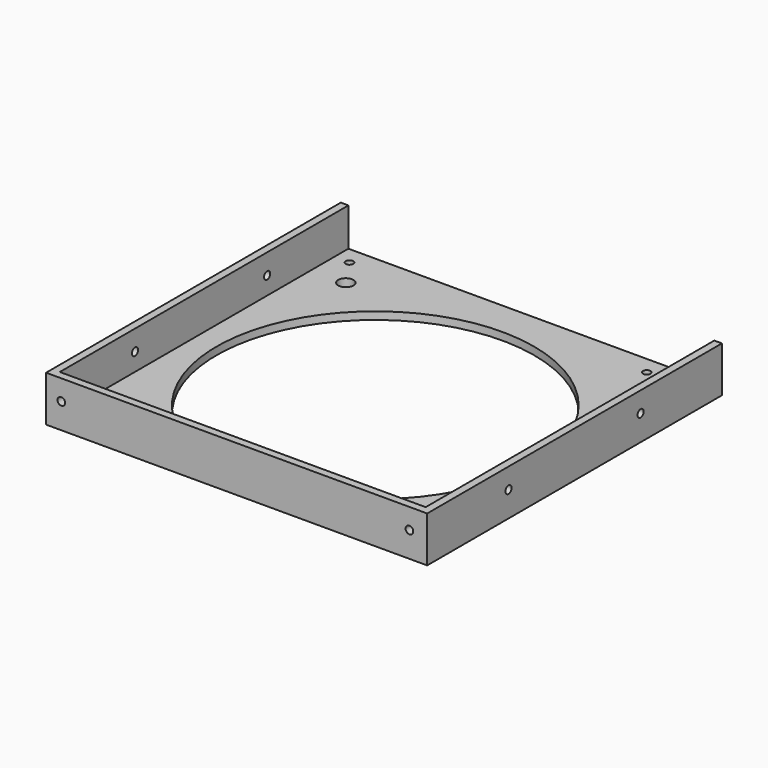
from build123d import *

# Parameters (mm, degrees)
F0_W     = 3
F0_H     = 142
F0_W_2   = 144
F0_R     = 3
F0_R_2   = 62.5
F0_R_3   = 1.5
F0_H_2   = 3
F1_DEPTH = 3
F2_DEPTH = 15
F5_R     = 1.5
F6_DEPTH = 3
F4_R     = 1.5
F7_DEPTH = 25
F3_R     = 1.5
F8_DEPTH = 25


with BuildPart() as f1:
    # F0 (on Top) → F1 (new body)
    with BuildSketch(Plane.XY):
        with Locations((-57.4185222983, 8.8288192153)):
            Rectangle(F0_W, F0_H)
        with Locations((16.0814777017, 8.8288192153)):
            Rectangle(F0_W_2, F0_H)
        with Locations((-42.3870939074, -54.3524108875)):
            Circle(F0_R, mode=Mode.SUBTRACT)
        with Locations((73.6129060926, -54.3524108875)):
            Circle(F0_R, mode=Mode.SUBTRACT)
        with Locations((15.6129060926, 3.6475891125)):
            Circle(F0_R_2, mode=Mode.SUBTRACT)
        with Locations((-42.3870939074, 61.6475891125)):
            Circle(F0_R, mode=Mode.SUBTRACT)
        with Locations((-49.9185222983, 72.8288192153)):
            Circle(F0_R_3, mode=Mode.SUBTRACT)
        with Locations((73.6129060926, 61.6475891125)):
            Circle(F0_R, mode=Mode.SUBTRACT)
        with Locations((67.0814777017, 72.8288192153)):
            Circle(F0_R_3, mode=Mode.SUBTRACT)
        with Locations((89.5814777017, 8.8288192153)):
            Rectangle(F0_W, F0_H)
        with Locations((16.0814777017, -63.6711807847)):
            Rectangle(F0_W_2, F0_H_2)
        with Locations((89.5814777017, -63.6711807847)):
            Rectangle(F0_W, F0_H_2)
        with Locations((-57.4185222983, -63.6711807847)):
            Rectangle(F0_W, F0_H_2)
    extrude(amount=-F1_DEPTH)

    # F0 (on Top) → F2 (join)
    with BuildSketch(Plane.XY):
        with Locations((-57.4185222983, 8.8288192153)):
            Rectangle(F0_W, F0_H)
        with Locations((-57.4185222983, -63.6711807847)):
            Rectangle(F0_W, F0_H_2)
        with Locations((16.0814777017, -63.6711807847)):
            Rectangle(F0_W_2, F0_H_2)
        with Locations((89.5814777017, -63.6711807847)):
            Rectangle(F0_W, F0_H_2)
        with Locations((89.5814777017, 8.8288192153)):
            Rectangle(F0_W, F0_H)
    extrude(amount=F2_DEPTH)

    # F5 (on face) → F6 (cut)
    with BuildSketch(Plane(origin=(-58.9185222983, 0, 0), x_dir=(0, -1, 0), z_dir=(-1, 0, 0))):
        with Locations((25.1711807847, 7)):
            Circle(F5_R)
        with Locations((-39.8288192153, 7)):
            Circle(F5_R)
    extrude(amount=-F6_DEPTH, mode=Mode.SUBTRACT)

    # F4 (on face) → F7 (cut)
    with BuildSketch(Plane.XZ.offset(65.1711807847)):
        with Locations((-52.9185222983, 7)):
            Circle(F4_R)
        with Locations((84.0814777017, 7)):
            Circle(F4_R)
    extrude(amount=-F7_DEPTH, mode=Mode.SUBTRACT)

    # F3 (on face) → F8 (cut)
    with BuildSketch(Plane.YZ.offset(91.0814777017)):
        with Locations((-25.1711807847, 7)):
            Circle(F3_R)
        with Locations((39.8288192153, 7)):
            Circle(F3_R)
    extrude(amount=-F8_DEPTH, mode=Mode.SUBTRACT)


solid = f1.part
